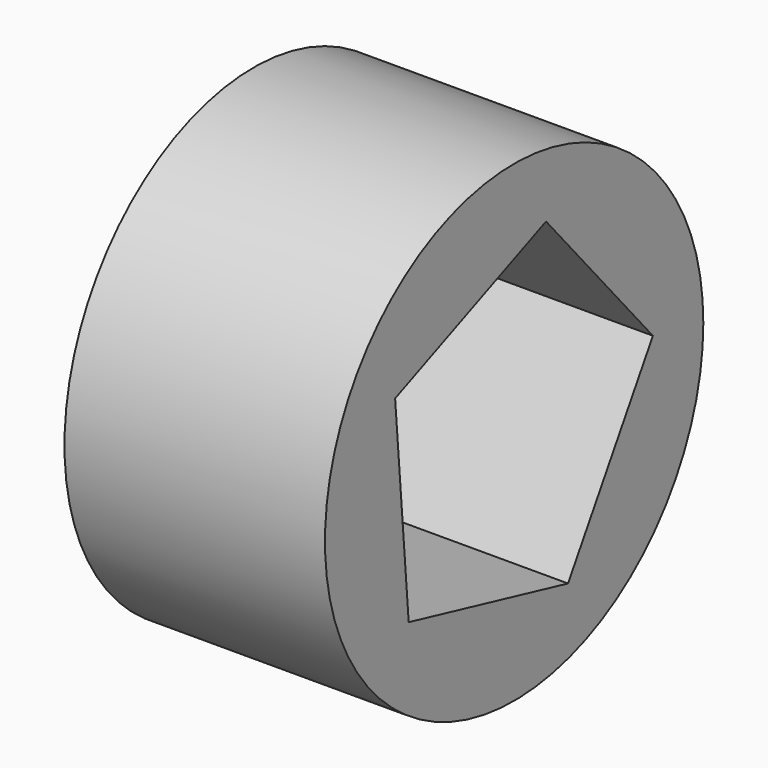
from build123d import *

# Parameters (mm, degrees)
F0_R     = 74.009235
F1_DEPTH = 81.534
F3_DEPTH = 226.06


with BuildPart() as f1:
    # F0 (on Right) → F1 (new body)
    with BuildSketch(Plane.YZ):
        Circle(F0_R)
    extrude(amount=F1_DEPTH)

    # F2 (on face) → F3 (cut)
    with BuildSketch(Plane.YZ):
        Polygon((54.283541, 4.519317), (12.476411, 53.023261), (-46.572695, 28.250861), (-41.259919, -35.563269), (21.072662, -50.230169), align=None)
    extrude(amount=F3_DEPTH, mode=Mode.SUBTRACT)


solid = f1.part
